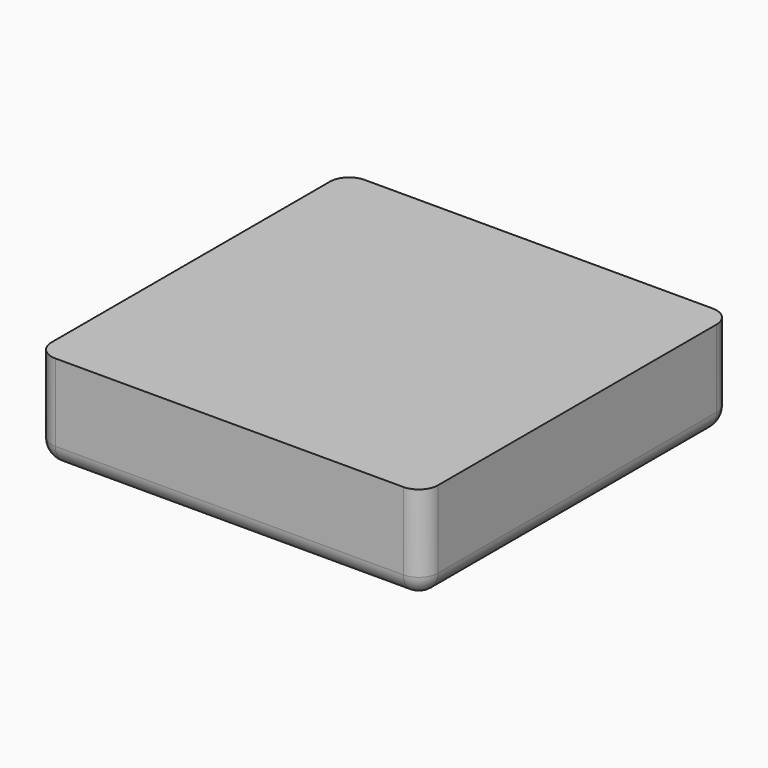
from build123d import *

# Parameters (mm, degrees)
F1_DEPTH = 5
F2_R     = 1


with BuildPart() as f1:
    # F0 (on Top) → F1 (new body)
    with BuildSketch(Plane.XY):
        with BuildLine():
            Line((-9, -10), (9, -10))
            ThreePointArc((9, -10), (9.7071067812, -9.7071067812), (10, -9))
            Line((10, -9), (10, 9))
            ThreePointArc((10, 9), (9.7071067812, 9.7071067812), (9, 10))
            Line((9, 10), (-9, 10))
            ThreePointArc((-9, 10), (-9.7071067812, 9.7071067812), (-10, 9))
            Line((-10, 9), (-10, -9))
            ThreePointArc((-10, -9), (-9.7071067812, -9.7071067812), (-9, -10))
        make_face()
    extrude(amount=F1_DEPTH)

    # F2
    f2_edges = [f1.edges().sort_by_distance(p)[0] for p in [
        (0, -10, 0),
        (9.707107, -9.707107, 0),
        (10, 0, 0),
        (9.707107, 9.707107, 0),
        (0, 10, 0),
        (-9.707107, 9.707107, 0),
        (-10, 0, 0),
        (-9.707107, -9.707107, 0),
    ]]
    fillet(f2_edges, radius=F2_R)


solid = f1.part
